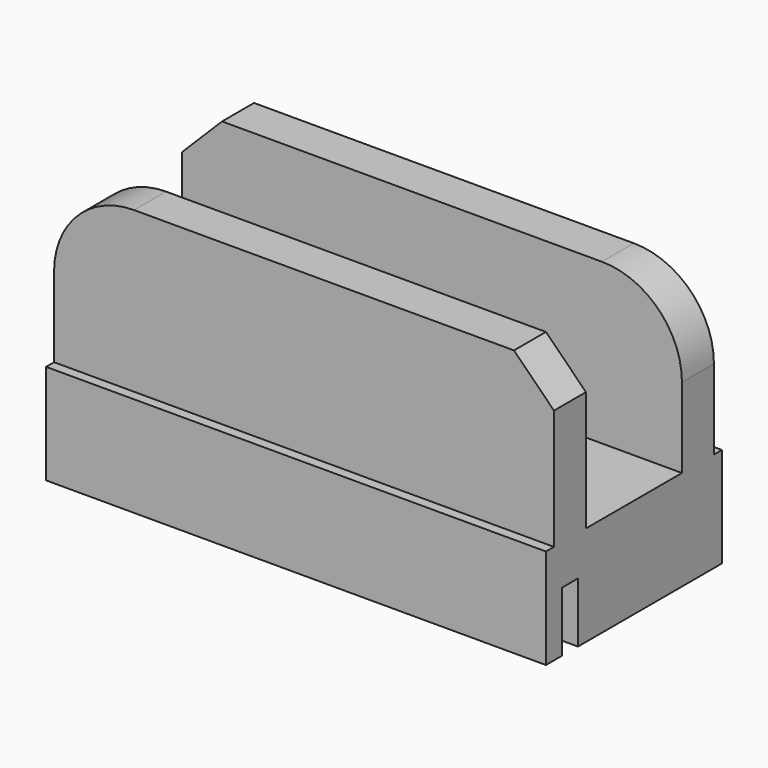
from build123d import *

# Parameters (mm, degrees)
F0_W      = 125
F0_H      = 25
F1_DEPTH  = 55
F2_W      = 5
F2_H      = 30
F3_DEPTH  = 125.001
F4_W      = 125
F4_H      = 10
F5_DEPTH  = 40
F6_R      = 20
F7_R      = 20
F8_SIZE   = 10
F9_SIZE   = 10
F10_R     = 15
F11_DEPTH = 25.001


with BuildPart() as f1:
    # F0 (on Front) → F1 (new body)
    with BuildSketch(Plane.XZ):
        Rectangle(F0_W, F0_H)
    extrude(amount=F1_DEPTH)

    # F2 (on face) → F3 (cut, through all)
    with BuildSketch(Plane(origin=(-62.5, 0, 0), x_dir=(0, -1, 0), z_dir=(-1, 0, 0))):
        with Locations((47.5, -12.5)):
            Rectangle(F2_W, F2_H)
    extrude(amount=-F3_DEPTH, mode=Mode.SUBTRACT)

    # F4 (on face) → F5 (join)
    with BuildSketch(Plane.XY.offset(12.5)):
        with Locations((0, -47.5)):
            Rectangle(F4_W, F4_H)
        with Locations((0, -7.5)):
            Rectangle(F4_W, F4_H)
    extrude(amount=F5_DEPTH)

    # F6
    f6_edges = [f1.edges().sort_by_distance(p)[0] for p in [
        (-62.5, -47.5, 52.5),
    ]]
    fillet(f6_edges, radius=F6_R)

    # F7
    f7_edges = [f1.edges().sort_by_distance(p)[0] for p in [
        (62.5, -7.5, 52.5),
    ]]
    fillet(f7_edges, radius=F7_R)

    # F8
    f8_edges = [f1.edges().sort_by_distance(p)[0] for p in [
        (62.5, -47.5, 52.5),
    ]]
    chamfer(f8_edges, length=F8_SIZE)

    # F9
    f9_edges = [f1.edges().sort_by_distance(p)[0] for p in [
        (-62.5, -7.5, 52.5),
    ]]
    chamfer(f9_edges, length=F9_SIZE)

    # F10 (on face) → F11 (cut, through all)
    with BuildSketch(Plane.XY.offset(12.5)):
        with Locations((0, -27.5)):
            Circle(F10_R)
    extrude(amount=-F11_DEPTH, mode=Mode.SUBTRACT)


solid = f1.part
